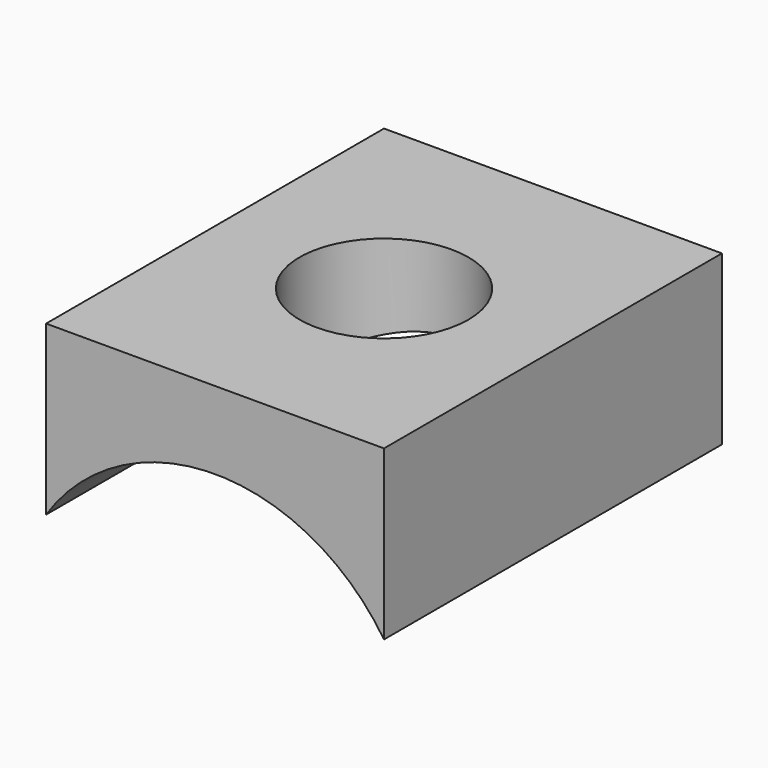
from build123d import *

# Parameters (mm, degrees)
F0_W     = 40
F0_H     = 20
F1_DEPTH = 50
F2_R     = 24
F3_DEPTH = 50.001
F4_R     = 10
F5_DEPTH = 19.913378


with BuildPart() as f1:
    # F0 (on Front) → F1 (new body)
    with BuildSketch(Plane.XZ):
        with Locations((0, 9.912378)):
            Rectangle(F0_W, F0_H)
    extrude(amount=F1_DEPTH)

    # F2 (on Front) → F3 (cut, through all)
    with BuildSketch(Plane.XZ):
        with Locations((0, -13.266499)):
            Circle(F2_R)
    extrude(amount=F3_DEPTH, mode=Mode.SUBTRACT)

    # F4 (on Top) → F5 (cut, through all)
    with BuildSketch(Plane.XY):
        with Locations((0, -25)):
            Circle(F4_R)
    extrude(amount=F5_DEPTH, mode=Mode.SUBTRACT)


solid = f1.part
